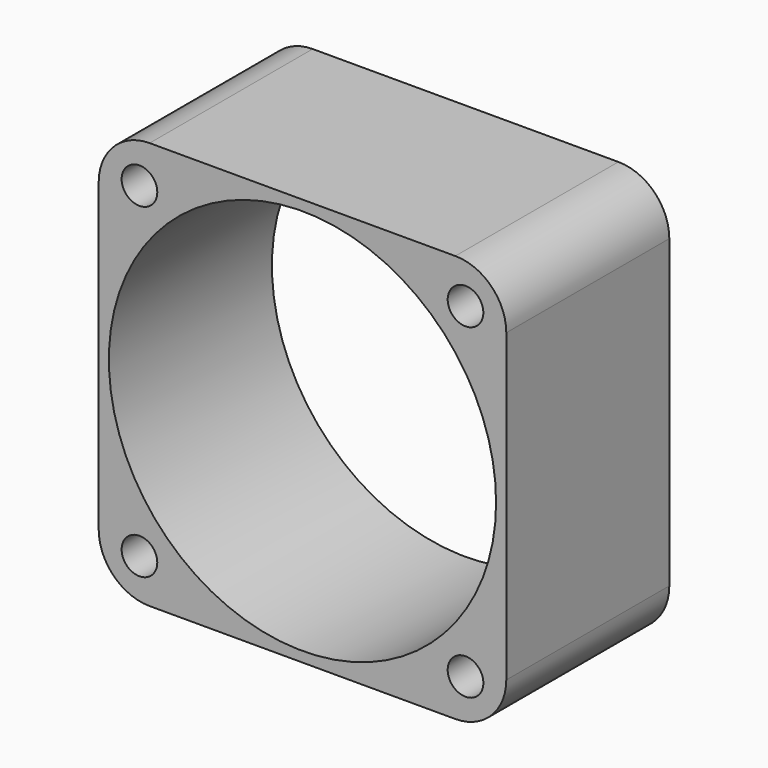
from build123d import *

# Parameters (mm, degrees)
F0_W     = 40
F0_H     = 40
F0_R     = 1.75
F0_R_2   = 19
F1_DEPTH = 20
F2_R     = 5


with BuildPart() as f1:
    # F0 (on Front) → F1 (new body)
    with BuildSketch(Plane.XZ):
        Rectangle(F0_W, F0_H)
        with Locations((-16, -16)):
            Circle(F0_R, mode=Mode.SUBTRACT)
        with Locations((16, -16)):
            Circle(F0_R, mode=Mode.SUBTRACT)
        with Locations((-16, 16)):
            Circle(F0_R, mode=Mode.SUBTRACT)
        Circle(F0_R_2, mode=Mode.SUBTRACT)
        with Locations((16, 16)):
            Circle(F0_R, mode=Mode.SUBTRACT)
    extrude(amount=F1_DEPTH)

    # F2
    f2_edges = [f1.edges().sort_by_distance(p)[0] for p in [
        (-20, -10, 20),
        (20, -10, 20),
        (20, -10, -20),
        (-20, -10, -20),
    ]]
    fillet(f2_edges, radius=F2_R)


solid = f1.part
